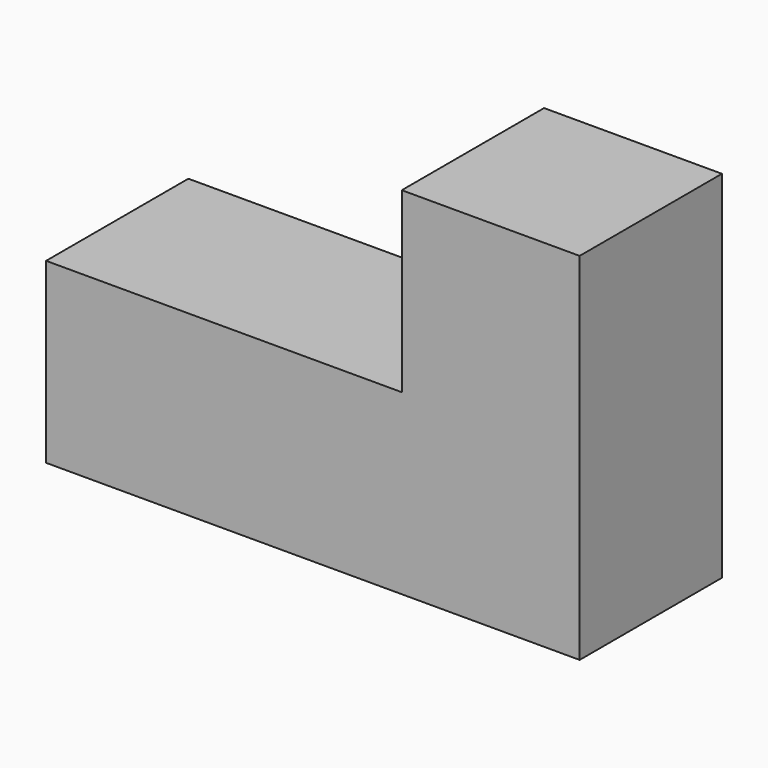
from build123d import *

# Parameters (mm, degrees)
F0_W     = 19.05
F0_H     = 19.05
F1_DEPTH = 19.05


with BuildPart() as f1:
    # F0 (on Front) → F1 (new body)
    with BuildSketch(Plane.XZ):
        Rectangle(F0_W, F0_H)
        with Locations((19.05, 0)):
            Rectangle(F0_W, F0_H)
        with Locations((19.05, 19.05)):
            Rectangle(F0_W, F0_H)
        with Locations((-19.05, 0)):
            Rectangle(F0_W, F0_H)
    extrude(amount=F1_DEPTH)


solid = f1.part
